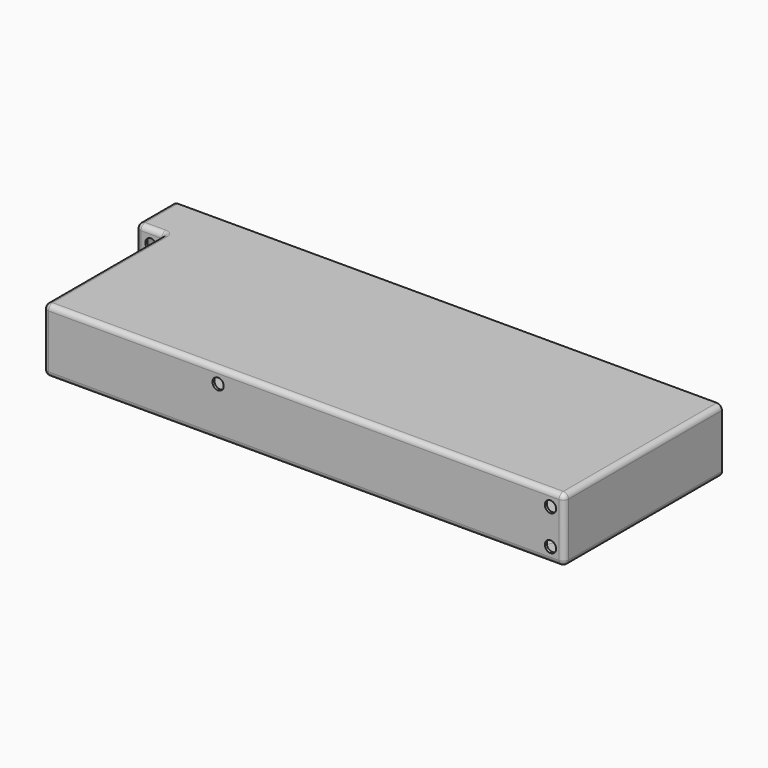
from build123d import *

# Parameters (mm, degrees)
F1_DEPTH  = 19.76
F2_R      = 4.86
F3_DEPTH  = 1.41
F3_TAPER  = 45
F4_R      = 0.8
F5_R      = 1.6
F6_T      = -0.762
F7_R      = 1.6
F8_DEPTH  = 2.172
F9_R      = 1.75
F10_DEPTH = 60.961
F11_R     = 1.5
F12_DEPTH = 0.762


with BuildPart() as f1:
    # F0 (on Top) → F1 (new body)
    with BuildSketch(Plane.XY):
        Polygon((84.98, 0), (-84.98, 0), (-84.98, -14.22), (-76.2, -14.22), (-76.2, -60.96), (84.98, -60.96), align=None)
    extrude(amount=-F1_DEPTH)

    # F2 (on face) → F3 (cut)
    with BuildSketch(Plane(origin=(0, 0, -19.76), x_dir=(1, 0, 0), z_dir=(0, 0, -1))):
        with Locations((-50.616, 52.17)):
            Circle(F2_R)
        with Locations((70.064, 8)):
            Circle(F2_R)
        with Locations((70.064, 52.17)):
            Circle(F2_R)
        with Locations((-69.936, 8)):
            Circle(F2_R)
    extrude(amount=-F3_DEPTH, taper=F3_TAPER, mode=Mode.SUBTRACT)

    # F4
    f4_edges = [f1.edges().sort_by_distance(p)[0] for p in [
        (-76.2, -14.22, -9.88),
        (-73.386, -8, -18.35),
        (-54.066, -52.17, -18.35),
        (66.614, -52.17, -18.35),
        (66.614, -8, -18.35),
    ]]
    fillet(f4_edges, radius=F4_R)

    # F5
    f5_edges = [f1.edges().sort_by_distance(p)[0] for p in [
        (84.98, -30.48, -19.76),
        (84.98, -30.48, 0),
        (84.98, -60.96, -9.88),
        (4.39, -60.96, -19.76),
        (4.39, -60.96, 0),
        (-76.2, -37.99, -19.76),
        (-76.2, -37.99, 0),
        (-76.2, -60.96, -9.88),
        (-84.98, -14.22, -9.88),
        (-84.98, -7.11, -19.76),
        (-84.98, -7.11, 0),
        (-74.796, -8, -19.76),
        (-55.476, -52.17, -19.76),
        (65.204, -8, -19.76),
        (65.204, -52.17, -19.76),
    ]]
    fillet(f5_edges, radius=F5_R)

    # F6
    f6_openings = [f1.faces().sort_by_distance(p)[0] for p in [
        (0, 0, -9.88),
    ]]
    offset(amount=F6_T, openings=f6_openings)

    # F7 (on face) → F8 (cut, through all)
    with BuildSketch(Plane(origin=(0, 0, -19.76), x_dir=(1, 0, 0), z_dir=(0, 0, -1))):
        with Locations((70.064, 8)):
            Circle(F7_R)
        with Locations((-69.936, 8)):
            Circle(F7_R)
        with Locations((70.064, 52.17)):
            Circle(F7_R)
        with Locations((-50.616, 52.17)):
            Circle(F7_R)
    extrude(amount=-F8_DEPTH, mode=Mode.SUBTRACT)

    # F9 (on face) → F10 (cut, through all)
    with BuildSketch(Plane.XZ.offset(60.96)):
        with Locations((-80.302, -4.427)):
            Circle(F9_R)
        with Locations((-80.302, -15.297)):
            Circle(F9_R)
        with Locations((-22.156, -4.427)):
            Circle(F9_R)
        with Locations((80.698, -4.427)):
            Circle(F9_R)
        with Locations((80.698, -15.297)):
            Circle(F9_R)
    extrude(amount=-F10_DEPTH, mode=Mode.SUBTRACT)

    # F11 (on face) → F12 (cut, through all)
    with BuildSketch(Plane(origin=(-76.2, 0, 0), x_dir=(0, -1, 0), z_dir=(-1, 0, 0))):
        with Locations((27.475, -9.88)):
            Circle(F11_R)
        with Locations((45.675, -9.88)):
            Circle(F11_R)
        with BuildLine():
            Line((30.2982110359, -7.5973648178), (29.4932306964, -12.1626351822))
            ThreePointArc((29.4932306964, -12.1626351822), (29.7557466683, -13.1423581271), (30.675, -13.5710129954))
            Line((30.675, -13.5710129954), (42.475, -13.5710129954))
            ThreePointArc((42.475, -13.5710129954), (43.3942533317, -13.1423581271), (43.6567693036, -12.1626351822))
            Line((43.6567693036, -12.1626351822), (42.8517889641, -7.5973648178))
            ThreePointArc((42.8517889641, -7.5973648178), (42.5097688208, -7.0049685523), (41.8669812111, -6.7710129954))
            Line((41.8669812111, -6.7710129954), (31.2830187889, -6.7710129954))
            ThreePointArc((31.2830187889, -6.7710129954), (30.6402311792, -7.0049685523), (30.2982110359, -7.5973648178))
        make_face()
    extrude(amount=-F12_DEPTH, mode=Mode.SUBTRACT)


solid = f1.part
